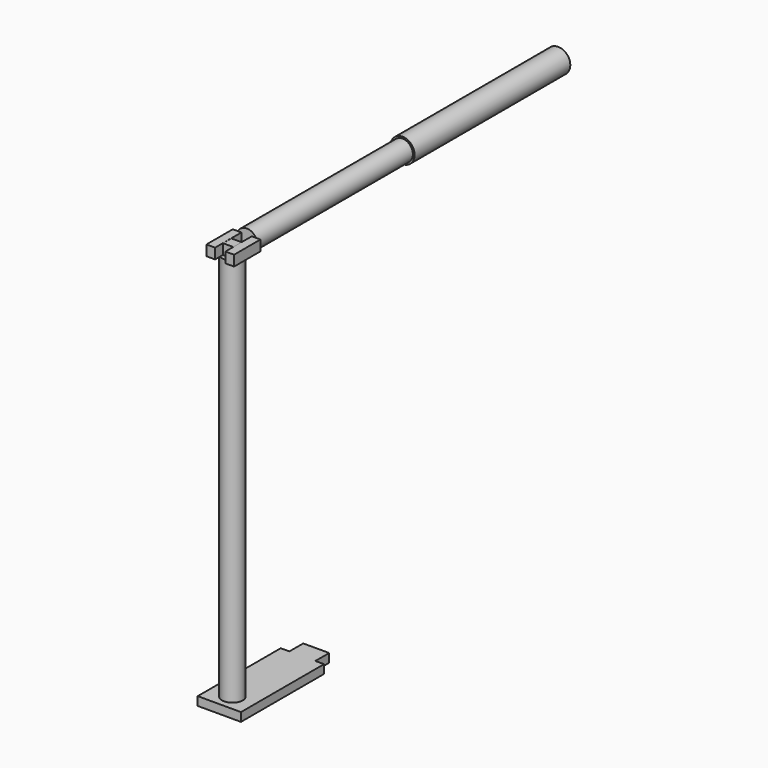
from build123d import *

# Parameters (mm, degrees)
F0_W      = 10
F0_H      = 20
F1_DEPTH  = 10
F2_R      = 12
F3_DEPTH  = 450
F4_W      = 12
F4_H      = 12
F5_DEPTH  = 12
F6_W      = 38.0882956088
F6_H      = 12.0832407475
F7_DEPTH  = 10
F8_W      = 38.0462743342
F8_H      = 12.0327174664
F9_DEPTH  = 10
F10_R     = 12
F11_DEPTH = 225
F12_R     = 14
F13_DEPTH = 225


with BuildPart() as f1:
    # F0 (on Top) → F1 (new body)
    with BuildSketch(Plane.XY):
        Polygon((-96.8159428212, 10.2990681306), (-96.8159428212, -89.7009318694), (-46.8159428212, -89.7009318694), (-46.8159428212, 10.2990681306), (-56.8159428212, 10.2990681306), (-86.8159428212, 10.2990681306), align=None)
        with Locations((-91.8159428212, 20.2990681306)):
            Rectangle(F0_W, F0_H)
        Polygon((-86.8159428212, 30.2990681306), (-86.8159428212, 10.2990681306), (-56.8159428212, 10.2990681306), (-56.8159428212, 30.2990681306), (-56.8159428212, 50.2990681306), (-86.8159428212, 50.2990681306), align=None)
        with Locations((-51.8159428212, 20.2990681306)):
            Rectangle(F0_W, F0_H)
    extrude(amount=F1_DEPTH)

    # F2 (on face) → F3 (join)
    with BuildSketch(Plane.XY.offset(10)):
        with Locations((-71.8159428212, -70.8084776998)):
            Circle(F2_R)
    extrude(amount=F3_DEPTH)

    # F4 (on face) → F5 (join)
    with BuildSketch(Plane.XY.offset(460)):
        with Locations((-71.8180909753, -70.9205174615)):
            Rectangle(F4_W, F4_H)
    extrude(amount=F5_DEPTH)

    # F6 (on face) → F7 (join)
    with BuildSketch(Plane.YZ.offset(-65.8180909753)):
        with Locations((-69.3628769368, 466.0416203737)):
            Rectangle(F6_W, F6_H)
    extrude(amount=F7_DEPTH)

    # F8 (on face) → F9 (join)
    with BuildSketch(Plane(origin=(-77.8180909753, 0, 0), x_dir=(0, -1, 0), z_dir=(-1, 0, 0))):
        with Locations((69.303361699, 466.1028534174)):
            Rectangle(F8_W, F8_H)
    extrude(amount=F9_DEPTH)

    # F10 (on face) → F11 (join)
    with BuildSketch(Plane(origin=(0, -50.3187291324, 0), x_dir=(-1, 0, 0), z_dir=(0, 1, 0))):
        with Locations((71.529455483, 466.2147164345)):
            Circle(F10_R)
    extrude(amount=F11_DEPTH)

    # F12 (on face) → F13 (join)
    with BuildSketch(Plane(origin=(0, 174.6812708676, 0), x_dir=(-1, 0, 0), z_dir=(0, 1, 0))):
        with Locations((71.529455483, 466.2147164345)):
            Circle(F12_R)
    extrude(amount=F13_DEPTH)


solid = f1.part
